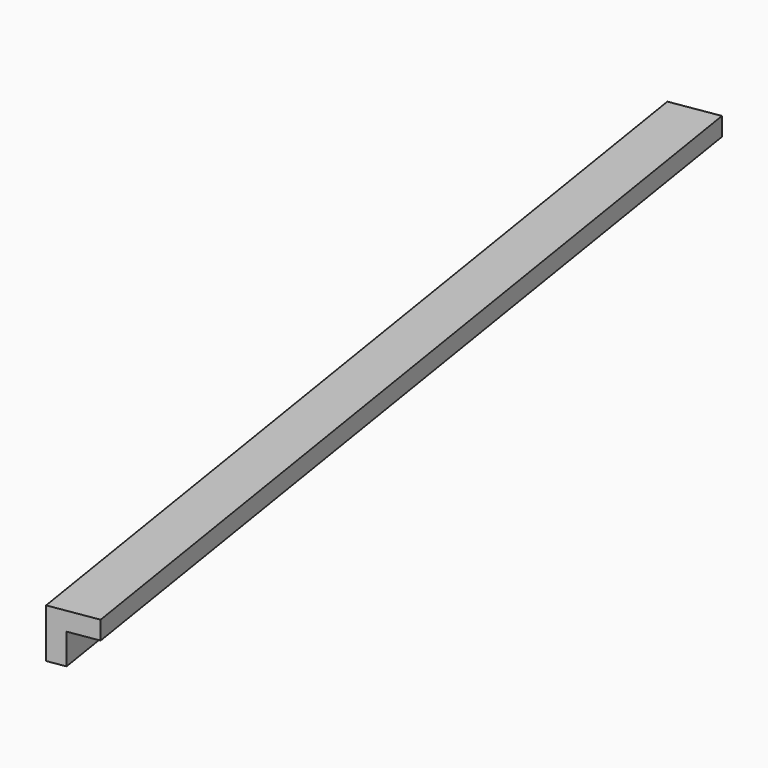
from build123d import *

# Parameters (mm, degrees)
BOX173_W               = 0.8
BOX173_H               = 16
BOX173_DEPTH           = 0.8
BOX174_W               = 0.8
BOX174_H               = 16
BOX174_DEPTH           = 0.8
CUT090_PLACEMENT_ANGLE = 189


with BuildPart() as cubo173:
    # Box173 → Box173 (new body)
    with BuildSketch(Plane.XY):
        with Locations((0.4, 8)):
            Rectangle(BOX173_W, BOX173_H)
    extrude(amount=BOX173_DEPTH)


with BuildPart() as obj1:
    # Box174 → Box174 (new body)
    with BuildSketch(Plane(origin=(0.3, 0, 0.3), x_dir=(1, 0, 0), z_dir=(0, 0, 1))):
        with Locations((0.4, 8)):
            Rectangle(BOX174_W, BOX174_H)
    extrude(amount=BOX174_DEPTH)

    # Cut090: cut Cubo173
    add(cubo173.part, mode=Mode.SUBTRACT)


with BuildPart() as obj1_1:
    # Cut090 placement: moved
    add(obj1.part.moved(Location((-170.3, 159.8, -1.45))).rotate(Axis((-170.3, 159.8, -1.45), (0, 0, 1)), CUT090_PLACEMENT_ANGLE))


solid = obj1_1.part
